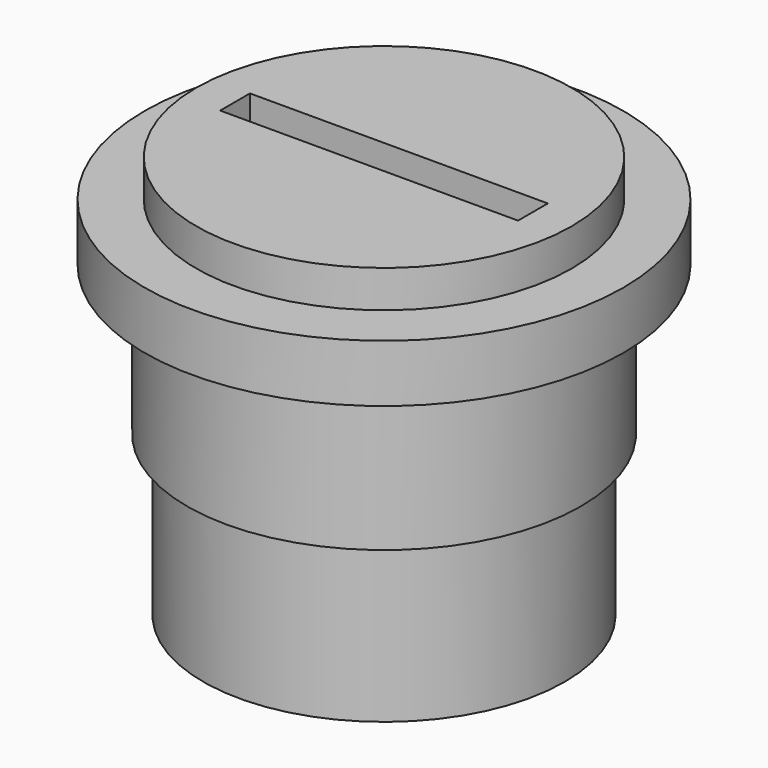
from build123d import *

# Parameters (mm, degrees)
F2_R     = 17
F3_DEPTH = 15
F4_W     = 28
F4_H     = 3.5
F5_DEPTH = 40


with BuildPart() as f1:
    # F0 (on Front) → F1 (revolve)
    with BuildSketch(Plane.XZ):
        Polygon((0, 22.9), (0, 0), (18.5, 0), (18.5, 14), (22.5, 14), (22.5, 19.4), (17.64, 19.4), (17.64, 22.9), align=None)
    revolve(axis=Axis((0, 0, -1.557709), (0, 0, 1)))

    # F2 (on face) → F3 (join)
    with BuildSketch(Plane(origin=(0, 0, 0), x_dir=(1, 0, 0), z_dir=(0, 0, -1))):
        Circle(F2_R)
    extrude(amount=F3_DEPTH)

    # F4 (on face) → F5 (cut)
    with BuildSketch(Plane(origin=(0, 0, -15), x_dir=(1, 0, 0), z_dir=(0, 0, -1))):
        Rectangle(F4_W, F4_H)
    extrude(amount=-F5_DEPTH, mode=Mode.SUBTRACT)


solid = f1.part
